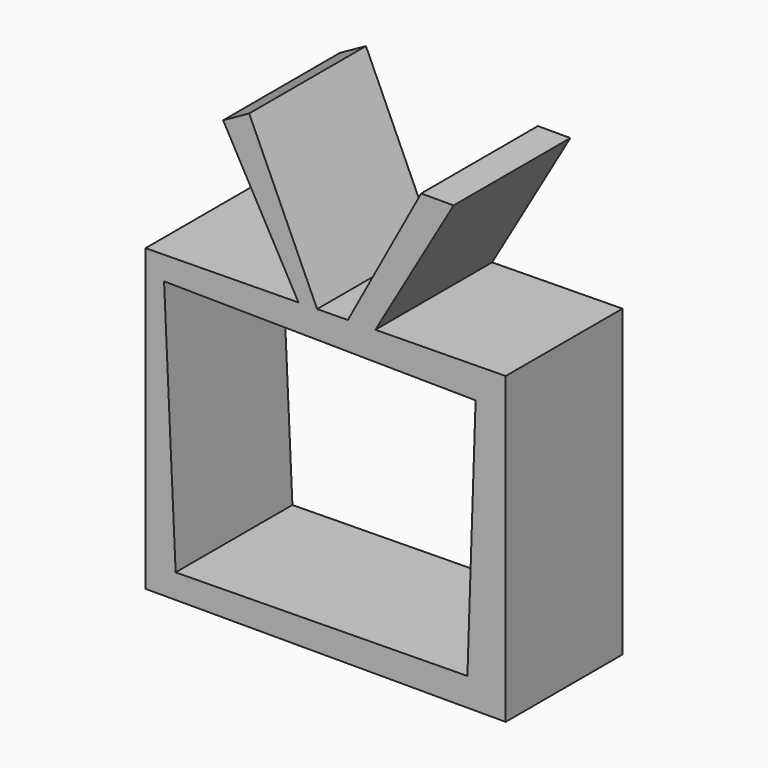
from build123d import *

# Parameters (mm, degrees)
F1_DEPTH = 25.4
F3_DEPTH = 25.4


with BuildPart() as f1:
    # F0 (on Front) → F1 (new body)
    with BuildSketch(Plane.XZ):
        Polygon((27.711272, 14.598642), (-34.966588, 13.805252), (-34.966588, -38.392708), (27.711272, -38.392708), align=None)
        Polygon((-29.726638, -34.160443), (-31.742003, 9.774522), (22.471322, 9.169912), (21.04733, -33.517734), align=None, mode=Mode.SUBTRACT)
    extrude(amount=F1_DEPTH)

    # F2 (on Front) → F3 (join)
    with BuildSketch(Plane.XZ):
        Polygon((-21.46364, 37.788097), (-8.162229, 13.805252), (-4.937645, 13.805252), (-16.926625, 40.304425), align=None)
        Polygon((12.999105, 37.788097), (0, 13.805252), (4.736108, 13.805252), (18.642128, 37.788097), align=None)
    extrude(amount=F3_DEPTH)


solid = f1.part
